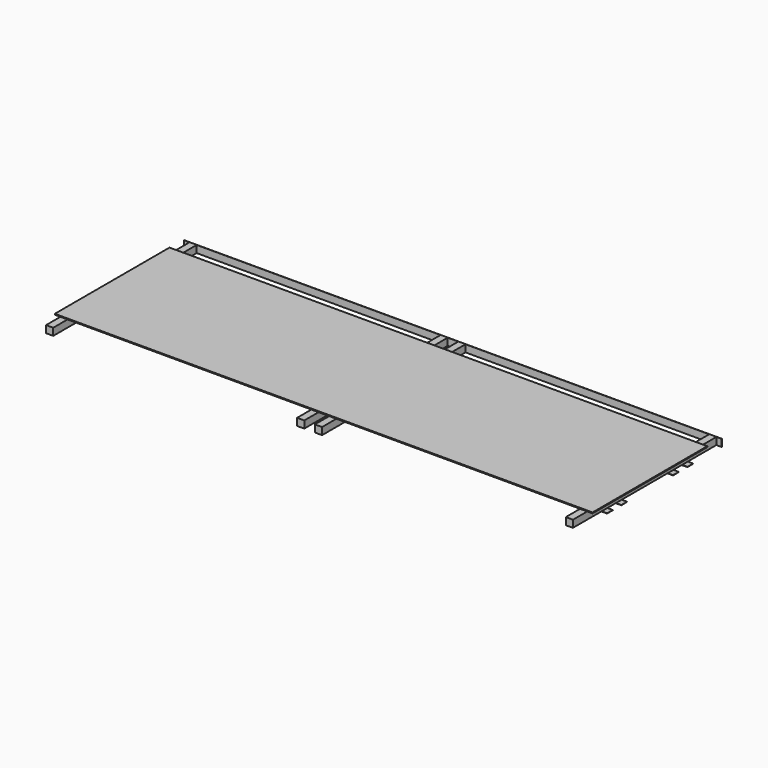
from build123d import *

# Parameters (mm, degrees)
F0_W     = 40
F0_H     = 40
F1_DEPTH = 1000
F2_W     = 40
F2_H     = 1.5
F3_DEPTH = 3000
F4_W     = 1.5
F4_H     = 40
F5_DEPTH = 3000
F6_W     = 800
F6_H     = 5
F7_DEPTH = 3000


with BuildPart() as f1:
    # F0 (on Front) → F1 (new body)
    with BuildSketch(Plane.XZ):
        with Locations((50.854834, 20)):
            Rectangle(F0_W, F0_H)
        with Locations((1451.282043, 20)):
            Rectangle(F0_W, F0_H)
        with Locations((1550.51281, 20)):
            Rectangle(F0_W, F0_H)
        with Locations((2950.191994, 20)):
            Rectangle(F0_W, F0_H)
    extrude(amount=-F1_DEPTH)


with BuildPart() as f3:
    # F2 (on Right) → F3 (new body)
    with BuildSketch(Plane.YZ):
        with Locations((780.920882, -0.75)):
            Rectangle(F2_W, F2_H)
        with Locations((680.61765, -0.75)):
            Rectangle(F2_W, F2_H)
        with Locations((320.240934, -0.75)):
            Rectangle(F2_W, F2_H)
        with Locations((220.313196, -0.75)):
            Rectangle(F2_W, F2_H)
    extrude(amount=F3_DEPTH)


with BuildPart() as f5:
    # F4 (on Right) → F5 (new body)
    with BuildSketch(Plane.YZ):
        with Locations((1000.824506, 20)):
            Rectangle(F4_W, F4_H)
    extrude(amount=F5_DEPTH)


with BuildPart() as f7:
    # F6 (on Right) → F7 (new body)
    with BuildSketch(Plane.YZ):
        with Locations((499.302076, 42.668136)):
            Rectangle(F6_W, F6_H)
    extrude(amount=F7_DEPTH)


solid = Compound([f1.part, f3.part, f5.part, f7.part])
